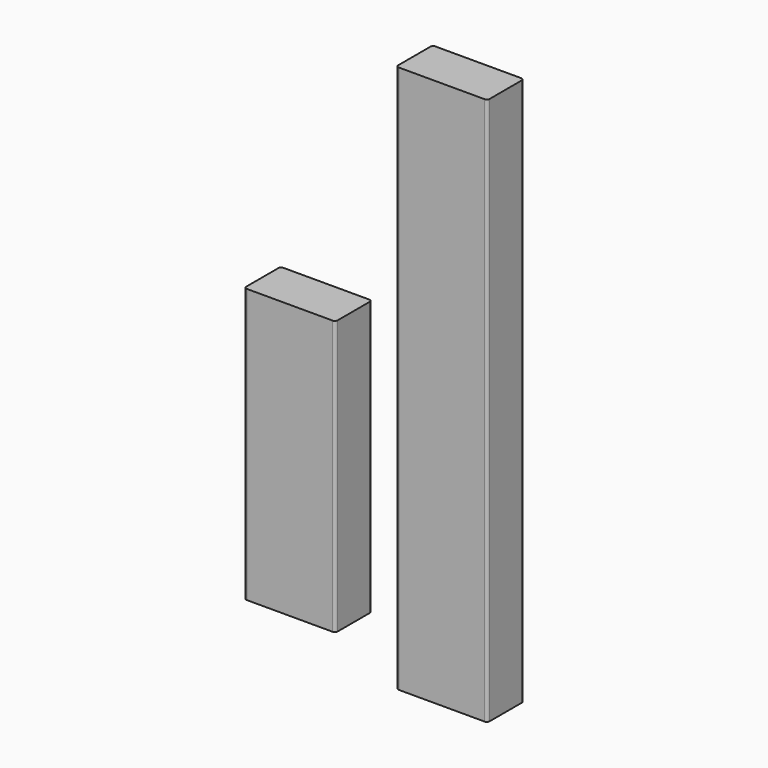
from build123d import *

# Parameters (mm, degrees)
F1_DEPTH = 304.8
F3_DEPTH = 609.6


with BuildPart() as f1:
    # F0 (on Top) → F1 (new body)
    with BuildSketch(Plane.XY):
        with BuildLine():
            Line((-47.625, -25.4), (47.625, -25.4))
            ThreePointArc((47.625, -25.4), (49.870064, -24.470064), (50.8, -22.225))
            Line((50.8, -22.225), (50.8, 22.225))
            ThreePointArc((50.8, 22.225), (49.870064, 24.470064), (47.625, 25.4))
            Line((47.625, 25.4), (-47.625, 25.4))
            ThreePointArc((-47.625, 25.4), (-49.870064, 24.470064), (-50.8, 22.225))
            Line((-50.8, 22.225), (-50.8, -22.225))
            ThreePointArc((-50.8, -22.225), (-49.870064, -24.470064), (-47.625, -25.4))
        make_face()
    extrude(amount=F1_DEPTH)


with BuildPart() as f3:
    # F2 (on Top) → F3 (new body)
    with BuildSketch(Plane.XY):
        with BuildLine():
            Line((161.027675, -74.845441), (256.277675, -74.845441))
            ThreePointArc((256.277675, -74.845441), (258.522739, -73.915505), (259.452675, -71.670441))
            Line((259.452675, -71.670441), (259.452675, -27.220441))
            ThreePointArc((259.452675, -27.220441), (258.522739, -24.975377), (256.277675, -24.045441))
            Line((256.277675, -24.045441), (161.027675, -24.045441))
            ThreePointArc((161.027675, -24.045441), (158.782611, -24.975377), (157.852675, -27.220441))
            Line((157.852675, -27.220441), (157.852675, -71.670441))
            ThreePointArc((157.852675, -71.670441), (158.782611, -73.915505), (161.027675, -74.845441))
        make_face()
    extrude(amount=F3_DEPTH)


solid = Compound([f1.part, f3.part])
